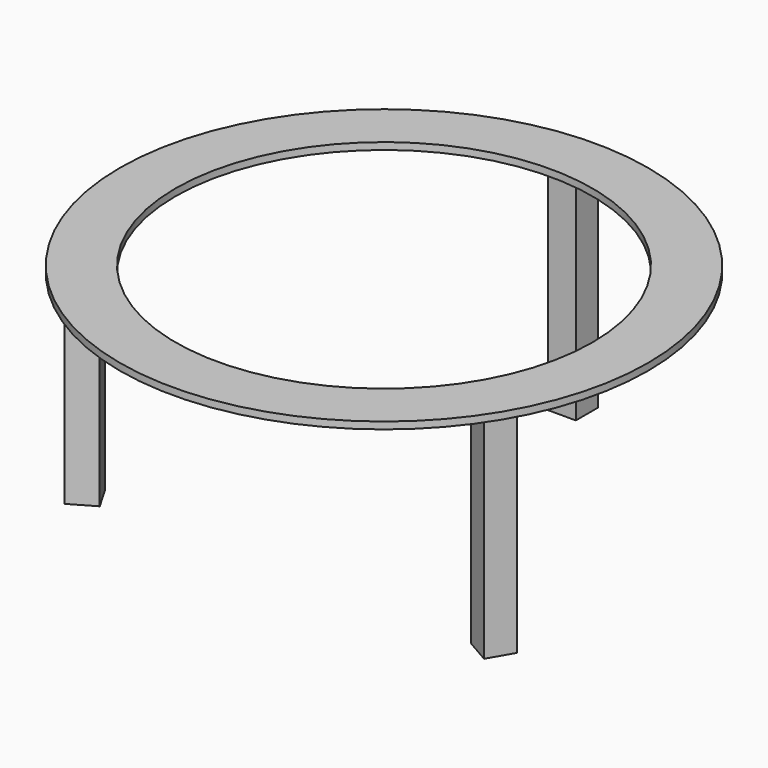
from build123d import *

# Parameters (mm, degrees)
F0_R     = 950
F0_R_2   = 750
F1_DEPTH = 25
F2_W     = 100
F2_H     = 100
F3_DEPTH = 775


with BuildPart() as f1:
    # F0 (on Top) → F1 (new body)
    with BuildSketch(Plane.XY):
        Circle(F0_R)
        Circle(F0_R_2, mode=Mode.SUBTRACT)
    extrude(amount=F1_DEPTH)

    # F2 (on face) → F3 (join)
    with BuildSketch(Plane(origin=(0, 0, 0), x_dir=(1, 0, 0), z_dir=(0, 0, -1))):
        with Locations((0, -850)):
            Rectangle(F2_W, F2_H)
        Polygon((-717.820323, 356.69873), (-667.820323, 443.30127), (-754.422863, 493.30127), (-804.422863, 406.69873), align=None)
        Polygon((667.820323, 443.30127), (717.820323, 356.69873), (804.422863, 406.69873), (754.422863, 493.30127), align=None)
    extrude(amount=F3_DEPTH)


solid = f1.part
